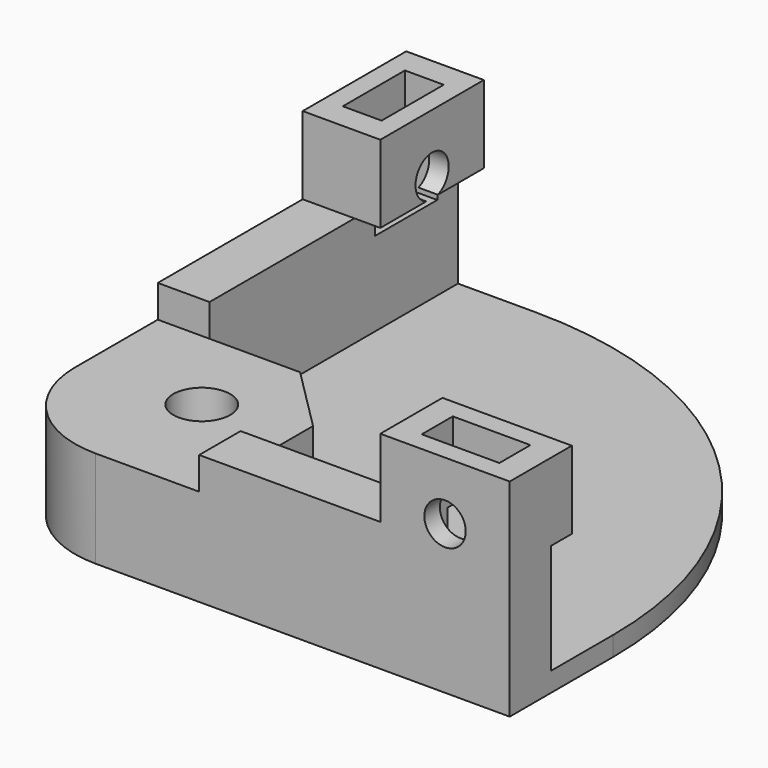
from build123d import *

# Parameters (mm, degrees)
F0_W           = 40
F0_H           = 40
F1_DEPTH       = 10
F3_DEPTH       = 8.5
F4_W           = 16
F4_H           = 16
F5_DEPTH       = 2.5
F7_D           = 4.4
F7_CBORE_D     = 8.25
F7_CBORE_DEPTH = 2
F8_W           = 6
F8_H           = 10
F8_W_2         = 10
F8_H_2         = 6
F9_DEPTH       = 6
F11_D          = 3.2
F12_W          = 3
F12_H          = 6
F12_W_2        = 6
F12_H_2        = 3
F13_DEPTH      = 8
F15_D          = 3.2
F16_R          = 30
F17_R          = 8


with BuildPart() as f1:
    # F0 (on Top) → F1 (new body)
    with BuildSketch(Plane.XY):
        with Locations((20, 20)):
            Rectangle(F0_W, F0_H)
    extrude(amount=F1_DEPTH)

    # F2 (on face) → F3 (cut)
    with BuildSketch(Plane.XY.offset(10)):
        Polygon((40, 4), (40, 40), (4, 40), (4, 16), (11, 16), (16, 11), (16, 4), align=None)
    extrude(amount=-F3_DEPTH, mode=Mode.SUBTRACT)

    # F4 (on face) → F5 (cut)
    with BuildSketch(Plane.XY.offset(10)):
        with Locations((8, 8)):
            Rectangle(F4_W, F4_H)
    extrude(amount=-F5_DEPTH, mode=Mode.SUBTRACT)

    # F7 (through all)
    with Locations(Plane(origin=(0, 0, 0), x_dir=(1, 0, 0), z_dir=(0, 0, -1))):
        with Locations((9, -9)):
            CounterBoreHole(F7_D / 2, F7_CBORE_D / 2, F7_CBORE_DEPTH)

    # F8 (on face) → F9 (join)
    with BuildSketch(Plane.XY.offset(10)):
        with Locations((3, 35)):
            Rectangle(F8_W, F8_H)
        with Locations((35, 3)):
            Rectangle(F8_W_2, F8_H_2)
    extrude(amount=F9_DEPTH)

    # F11 (through all)
    with Locations(Plane(origin=(0, 0, 0), x_dir=(0, -1, 0), z_dir=(-1, 0, 0))):
        with Locations((-35, 11.5)):
            Hole(F11_D / 2)

    # F12 (on face) → F13 (cut)
    with BuildSketch(Plane.XY.offset(16)):
        with Locations((3, 35)):
            Rectangle(F12_W, F12_H)
        with Locations((35, 3)):
            Rectangle(F12_W_2, F12_H_2)
    extrude(amount=-F13_DEPTH, mode=Mode.SUBTRACT)

    # F15 (through all)
    with Locations(Plane.XZ):
        with Locations((35, 11.5)):
            Hole(F15_D / 2)

    # F16
    f16_edges = [f1.edges().sort_by_distance(p)[0] for p in [
        (40, 40, 0.75),
    ]]
    fillet(f16_edges, radius=F16_R)

    # F17
    f17_edges = [f1.edges().sort_by_distance(p)[0] for p in [
        (0, 0, 3.75),
    ]]
    fillet(f17_edges, radius=F17_R)


solid = f1.part
